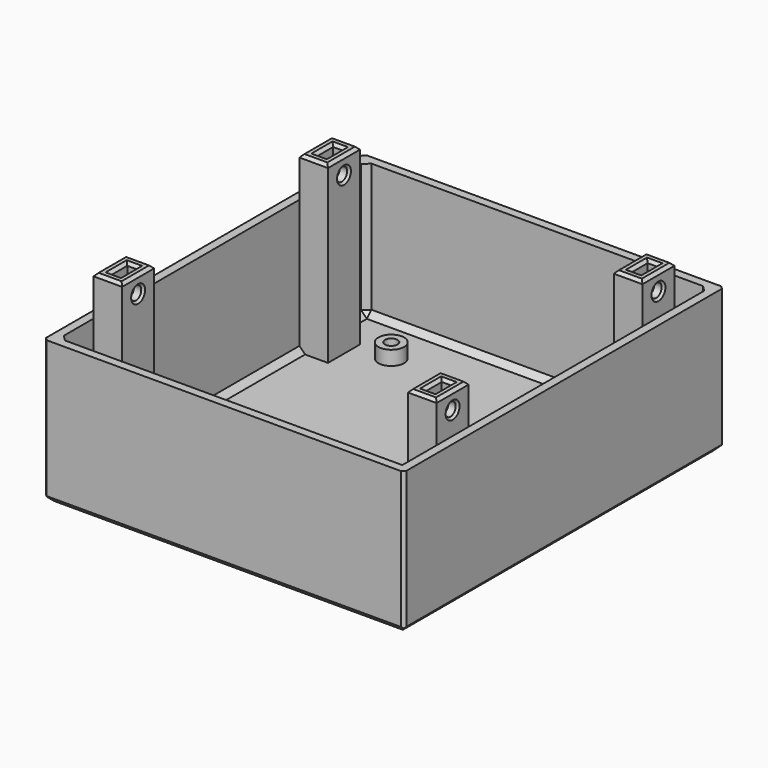
from build123d import *

# Parameters (mm, degrees)
SKETCH_W        = 126
SKETCH_H        = 140
PAD_DEPTH       = 50
SKETCH002_W     = 120
SKETCH002_H     = 134
POCKET_DEPTH    = 47
SKETCH001_W     = 10
SKETCH001_H     = 14
SKETCH001_W_2   = 3.4
SKETCH001_H_2   = 7.25
PAD001_DEPTH    = 61
SKETCH003_R     = 2.3
POCKET001_DEPTH = 123.001
SKETCH004_R     = 4.5
PAD002_DEPTH    = 5
SKETCH005_R     = 2.2
POCKET002_DEPTH = 8.001
CHAMFER_SIZE    = 2
CHAMFER001_SIZE = 0.35
CHAMFER002_SIZE = 1
CHAMFER003_SIZE = 0.75
CHAMFER004_SIZE = 1
CHAMFER005_SIZE = 2


with BuildPart() as part:
    # Sketch → Pad (new body)
    with BuildSketch(Plane.XY):
        Rectangle(SKETCH_W, SKETCH_H)
    extrude(amount=PAD_DEPTH)

    # Sketch002 → Pocket (cut)
    with BuildSketch(Plane.XY.offset(50)):
        Rectangle(SKETCH002_W, SKETCH002_H)
    extrude(amount=-POCKET_DEPTH, mode=Mode.SUBTRACT)

    # Sketch001 → Pad001 (new body)
    with BuildSketch(Plane.XY.offset(3)):
        with Locations((-55, 45)):
            Rectangle(SKETCH001_W, SKETCH001_H)
        with Locations((-55, 45)):
            Rectangle(SKETCH001_W_2, SKETCH001_H_2, mode=Mode.SUBTRACT)
        with Locations((55, 45)):
            Rectangle(SKETCH001_W, SKETCH001_H)
        with Locations((55, 45)):
            Rectangle(SKETCH001_W_2, SKETCH001_H_2, mode=Mode.SUBTRACT)
        with Locations((-55, -45)):
            Rectangle(SKETCH001_W, SKETCH001_H)
        with Locations((-55, -45)):
            Rectangle(SKETCH001_W_2, SKETCH001_H_2, mode=Mode.SUBTRACT)
        with Locations((55, -45)):
            Rectangle(SKETCH001_W, SKETCH001_H)
        with Locations((55, -45)):
            Rectangle(SKETCH001_W_2, SKETCH001_H_2, mode=Mode.SUBTRACT)
    extrude(amount=PAD001_DEPTH)

    # Sketch003 → Pocket001 (cut, through all)
    with BuildSketch(Plane.YZ.offset(60)):
        with Locations((-45, 58)):
            Circle(SKETCH003_R)
        with Locations((45, 58)):
            Circle(SKETCH003_R)
    extrude(amount=-POCKET001_DEPTH, mode=Mode.SUBTRACT)

    # Sketch004 → Pad002 (new body)
    with BuildSketch(Plane.XY.offset(3)):
        with Locations((-38.1655, 50.887)):
            Circle(SKETCH004_R)
        with Locations((38.1655, 50.887)):
            Circle(SKETCH004_R)
        with Locations((-38.1655, -50.887)):
            Circle(SKETCH004_R)
        with Locations((38.1655, -50.887)):
            Circle(SKETCH004_R)
    extrude(amount=PAD002_DEPTH)

    # Sketch005 → Pocket002 (cut, through all)
    with BuildSketch(Plane.XY.offset(8)):
        with Locations((-38.1655, 50.887)):
            Circle(SKETCH005_R)
        with Locations((38.1655, 50.887)):
            Circle(SKETCH005_R)
        with Locations((-38.1655, -50.887)):
            Circle(SKETCH005_R)
        with Locations((38.1655, -50.887)):
            Circle(SKETCH005_R)
    extrude(amount=-POCKET002_DEPTH, mode=Mode.SUBTRACT)

    # Chamfer
    chamfer_edges = [part.edges().sort_by_distance(p)[0] for p in [
        (63, 0, 0),
        (0, 70, 0),
        (0, -70, 0),
        (-63, 0, 0),
    ]]
    chamfer(chamfer_edges, length=CHAMFER_SIZE)

    # Chamfer001
    chamfer001_edges = [part.edges().sort_by_distance(p)[0] for p in [
        (-40.3655, -50.887, 0),
        (35.9655, -50.887, 0),
        (35.9655, 50.887, 0),
        (-40.3655, 50.887, 0),
    ]]
    chamfer(chamfer001_edges, length=CHAMFER001_SIZE)

    # Chamfer002
    chamfer002_edges = [part.edges().sort_by_distance(p)[0] for p in [
        (-55, 52, 64),
        (-50, 45, 64),
        (-55, 38, 64),
        (-60, 45, 64),
        (-55, 48.625, 64),
        (-53.3, 45, 64),
        (-55, 41.375, 64),
        (-56.7, 45, 64),
        (-55, -38, 64),
        (-50, -45, 64),
        (-55, -52, 64),
        (-60, -45, 64),
        (-55, -41.375, 64),
        (-53.3, -45, 64),
        (-55, -48.625, 64),
        (-56.7, -45, 64),
        (55, 52, 64),
        (60, 45, 64),
        (55, 38, 64),
        (50, 45, 64),
        (55, 48.625, 64),
        (56.7, 45, 64),
        (55, 41.375, 64),
        (53.3, 45, 64),
        (55, -38, 64),
        (60, -45, 64),
        (55, -52, 64),
        (50, -45, 64),
        (55, -41.375, 64),
        (56.7, -45, 64),
        (55, -48.625, 64),
        (53.3, -45, 64),
    ]]
    chamfer(chamfer002_edges, length=CHAMFER002_SIZE)

    # Chamfer003
    chamfer003_edges = [part.edges().sort_by_distance(p)[0] for p in [
        (-60, 42.7, 58),
        (-60, -47.3, 58),
        (50, -47.3, 58),
        (50, 42.7, 58),
        (-50, 42.7, 58),
        (60, 42.7, 58),
        (60, -47.3, 58),
        (-50, -47.3, 58),
    ]]
    chamfer(chamfer003_edges, length=CHAMFER003_SIZE)

    # Chamfer004
    chamfer004_edges = [part.edges().sort_by_distance(p)[0] for p in [
        (-63, 70, 26),
        (63, 70, 26),
        (63, -70, 26),
        (-63, -70, 26),
    ]]
    chamfer(chamfer004_edges, length=CHAMFER004_SIZE)

    # Chamfer005
    chamfer005_edges = [part.edges().sort_by_distance(p)[0] for p in [
        (-60, -67, 26.5),
        (0, -67, 3),
        (-60, 0, 3),
        (0, 67, 3),
        (60, 0, 3),
        (-60, 67, 26.5),
        (60, 67, 26.5),
        (60, 59.5, 3),
        (-60, 59.5, 3),
        (60, -59.5, 3),
        (-60, -59.5, 3),
    ]]
    chamfer(chamfer005_edges, length=CHAMFER005_SIZE)


solid = part.part
